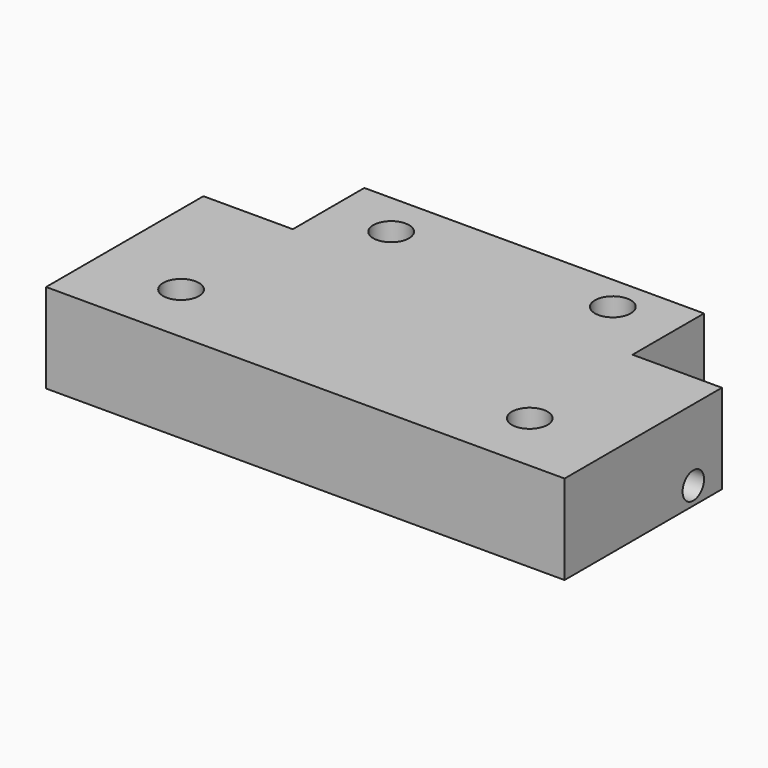
from build123d import *

# Parameters (mm, degrees)
F0_W     = 58
F0_H     = 22
F1_DEPTH = 10
F2_R     = 2
F3_DEPTH = 25
F4_R     = 1.5
F5_DEPTH = 500
F6_W     = 38
F6_H     = 10
F7_DEPTH = 10
F8_R     = 2
F9_DEPTH = 25


with BuildPart() as f1:
    # F0 (on Top) → F1 (new body)
    with BuildSketch(Plane.XY):
        Rectangle(F0_W, F0_H)
    extrude(amount=F1_DEPTH)

    # F2 (on face) → F3 (cut)
    with BuildSketch(Plane.XY.offset(10)):
        with Locations((-19.5, -4)):
            Circle(F2_R)
        with Locations((19.5, -4)):
            Circle(F2_R)
    extrude(amount=-F3_DEPTH, mode=Mode.SUBTRACT)

    # F4 (on face) → F5 (cut)
    with BuildSketch(Plane.YZ.offset(29)):
        with Locations((7, 2)):
            Circle(F4_R)
    extrude(amount=-F5_DEPTH, mode=Mode.SUBTRACT)

    # F6 (on face) → F7 (join)
    with BuildSketch(Plane(origin=(0, 11, 0), x_dir=(-1, 0, 0), z_dir=(0, 1, 0))):
        with Locations((0, 5)):
            Rectangle(F6_W, F6_H)
    extrude(amount=F7_DEPTH)

    # F8 (on face) → F9 (cut)
    with BuildSketch(Plane.XY.offset(10)):
        with Locations((12, 17)):
            Circle(F8_R)
        with Locations((-12, 16)):
            Circle(F8_R)
    extrude(amount=-F9_DEPTH, mode=Mode.SUBTRACT)


solid = f1.part
